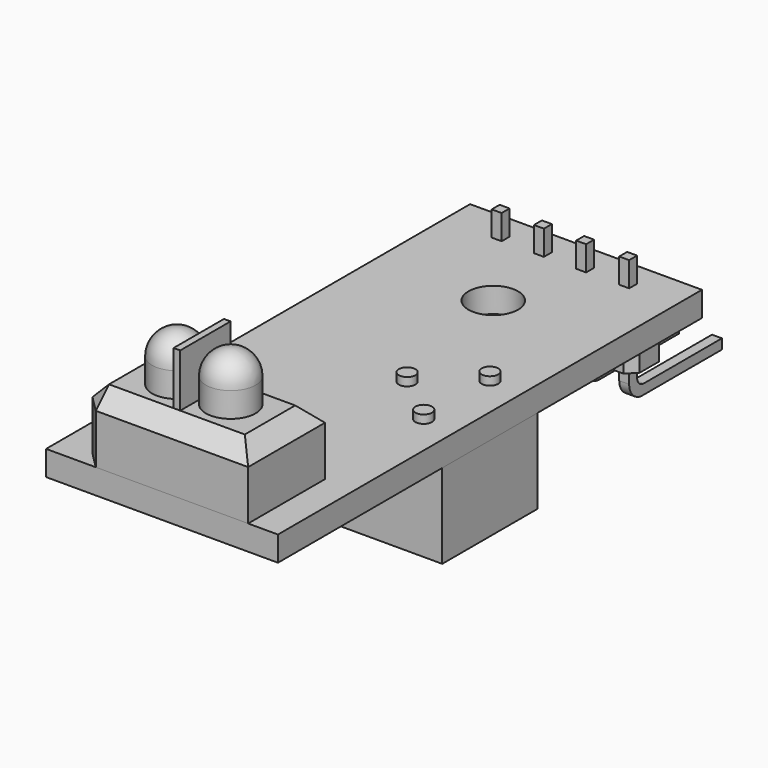
from build123d import *

# Parameters (mm, degrees)
BOX002_W                  = 0.6
BOX002_H                  = 0.6
BOX002_DEPTH              = 3
BOX004_W                  = 0.6
BOX004_H                  = 0.6
BOX004_DEPTH              = 7
BOX004_PITCH_ANGLE        = 90
BOX003_W                  = 0.6
BOX003_H                  = 0.6
BOX003_DEPTH              = 2
FILLET_R                  = 1
FILLET001_R               = 0.5
PAD001_DEPTH              = 2.5
FUSION007_PLACEMENT_ANGLE = 90
BOX005_W                  = 0.6
BOX005_H                  = 0.6
BOX005_DEPTH              = 3
FILLET002_R               = 0.5
PAD002_DEPTH              = 2.5
FUSION008_PLACEMENT_ANGLE = 90
BOX006_W                  = 0.6
BOX006_H                  = 0.6
BOX006_DEPTH              = 3
FILLET003_R               = 0.5
PAD003_DEPTH              = 2.5
FUSION009_PLACEMENT_ANGLE = 90
BOX007_W                  = 0.6
BOX007_H                  = 0.6
BOX007_DEPTH              = 3
FILLET004_R               = 0.5
PAD004_DEPTH              = 2.5
FUSION010_PLACEMENT_ANGLE = 90
CYLINDER006_R             = 1.5
CYLINDER006_DEPTH         = 2
SKETCH003_W               = 3.5
SKETCH003_H               = 0.5
POCKET001_DEPTH           = 0.5
SKETCH004_W               = 0.5
SKETCH004_H               = 3.35567
POCKET002_DEPTH           = 0.5
CYLINDER008_R             = 0.5
CYLINDER008_DEPTH         = 2
CYLINDER009_R             = 0.5
CYLINDER009_DEPTH         = 2
CYLINDER007_R             = 0.5
CYLINDER007_DEPTH         = 2
BOX008_W                  = 7
BOX008_H                  = 7.2
BOX008_DEPTH              = 5.1
SKETCH002_R               = 1.5
POCKET_DEPTH              = 2
CYLINDER004_R             = 0.2
CYLINDER004_DEPTH         = 7.8
CYLINDER005_R             = 0.2
CYLINDER005_DEPTH         = 7.8
CYLINDER001_R             = 1.5
CYLINDER001_DEPTH         = 2
CYLINDER002_R             = 0.2
CYLINDER002_DEPTH         = 7.8
CYLINDER003_R             = 0.2
CYLINDER003_DEPTH         = 7.8
CYLINDER_R                = 1.5
CYLINDER_DEPTH            = 2
BOX001_W                  = 10.2
BOX001_H                  = 5.8
BOX001_DEPTH              = 4
CHAMFER_SIZE              = 1
SKETCH_W                  = 0.4
SKETCH_H                  = 3.8
PAD_DEPTH                 = 3.2
BOX011_W                  = 0.3
BOX011_H                  = 0.4
BOX011_DEPTH              = 0.19
BOX011_ROLL_ANGLE         = 90
BOX012_W                  = 0.3
BOX012_H                  = 0.4
BOX012_DEPTH              = 0.19
BOX010_W                  = 0.3
BOX010_H                  = 0.4
BOX010_DEPTH              = 0.19
FILLET005_R               = 0.2
FILLET006_R               = 0.1
FILLET007_R               = 0.2
FILLET008_R               = 0.1
FILLET012_R               = 0.2
FILLET011_R               = 0.1
FILLET010_R               = 0.2
FILLET009_R               = 0.1
FILLET014_R               = 0.2
FILLET013_R               = 0.1
FILLET016_R               = 0.2
FILLET015_R               = 0.1
FILLET015_PLACEMENT_ANGLE = 180
FILLET022_R               = 0.2
FILLET021_R               = 0.1
FILLET021_PLACEMENT_ANGLE = 180
FILLET018_R               = 0.2
FILLET017_R               = 0.1
FILLET017_PLACEMENT_ANGLE = 180
FILLET020_R               = 0.2
FILLET019_R               = 0.1
FILLET019_PLACEMENT_ANGLE = 180
BOX009_W                  = 5
BOX009_H                  = 4
BOX009_DEPTH              = 1.5
CHAMFER001_SIZE           = 0.5
BOX_W                     = 14
BOX_H                     = 32
BOX_DEPTH                 = 1.5
SKETCH005_R               = 1.5
POCKET003_DEPTH           = 5


with BuildPart() as cubo:
    # Box002 → Box002 (new body)
    with BuildSketch(Plane(origin=(0.97, 0.97, 2.5), x_dir=(1, 0, 0), z_dir=(0, 0, 1))):
        with Locations((0.3, 0.3)):
            Rectangle(BOX002_W, BOX002_H)
    extrude(amount=BOX002_DEPTH)


with BuildPart() as cubo003:
    # Box004 → Box004 (new body)
    with BuildSketch(Plane.XY):
        with Locations((0.3, 0.3)):
            Rectangle(BOX004_W, BOX004_H)
    extrude(amount=BOX004_DEPTH)


with BuildPart() as cubo003_1:
    # Box004 pitch: moved
    add(cubo003.part.rotate(Axis((0, 0, 0), (0, 1, 0)), BOX004_PITCH_ANGLE))


with BuildPart() as cubo003_2:
    # Box004 placement: moved
    add(cubo003_1.part.moved(Location((0.97, 0.97, -1.5))))


with BuildPart() as fillet_body:
    # Box003 → Box003 (new body)
    with BuildSketch(Plane(origin=(0.97, 0.97, -1.5), x_dir=(1, 0, 0), z_dir=(0, 0, 1))):
        with Locations((0.3, 0.3)):
            Rectangle(BOX003_W, BOX003_H)
    extrude(amount=BOX003_DEPTH)

    # Fusion006: union Cubo003
    add(cubo003_2.part)

    # Fillet
    fillet_edges = [fillet_body.edges().sort_by_distance(p)[0] for p in [
        (0.97, 1.27, -2.1),
    ]]
    fillet(fillet_edges, radius=FILLET_R)


with BuildPart() as fillet001:
    # Fillet001 base: copy of Fillet body
    add(fillet_body.part)

    # Fillet001
    fillet001_edges = [fillet001.edges().sort_by_distance(p)[0] for p in [
        (1.57, 1.27, -1.5),
    ]]
    fillet(fillet001_edges, radius=FILLET001_R)


with BuildPart() as conector:
    # Sketch001 → Pad001 (new body)
    with BuildSketch(Plane.XY):
        Polygon((0, 0.544315), (0.544315, 0), (1.995685, 0), (2.54, 0.544315), (2.54, 1.995685), (1.995685, 2.54), (0.544315, 2.54), (0, 1.995685), align=None)
    extrude(amount=PAD001_DEPTH)

    # Fusion007: union Cubo, Fillet001
    add(cubo.part)
    add(fillet001.part)


with BuildPart() as conector_1:
    # Fusion007 placement: moved
    add(conector.part.moved(Location((4.5, 29, -2.5))).rotate(Axis((4.5, 29, -2.5), (0, 0, 1)), FUSION007_PLACEMENT_ANGLE))


with BuildPart() as cubo004:
    # Box005 → Box005 (new body)
    with BuildSketch(Plane(origin=(0.97, 0.97, 2.5), x_dir=(1, 0, 0), z_dir=(0, 0, 1))):
        with Locations((0.3, 0.3)):
            Rectangle(BOX005_W, BOX005_H)
    extrude(amount=BOX005_DEPTH)


with BuildPart() as fillet002:
    # Fillet002 base: copy of Fillet body
    add(fillet_body.part)

    # Fillet002
    fillet002_edges = [fillet002.edges().sort_by_distance(p)[0] for p in [
        (1.57, 1.27, -1.5),
    ]]
    fillet(fillet002_edges, radius=FILLET002_R)


with BuildPart() as conector001:
    # Sketch001 → Pad002 (new body)
    with BuildSketch(Plane.XY):
        Polygon((0, 0.544315), (0.544315, 0), (1.995685, 0), (2.54, 0.544315), (2.54, 1.995685), (1.995685, 2.54), (0.544315, 2.54), (0, 1.995685), align=None)
    extrude(amount=PAD002_DEPTH)

    # Fusion008: union Cubo004, Fillet002
    add(cubo004.part)
    add(fillet002.part)


with BuildPart() as conector001_1:
    # Fusion008 placement: moved
    add(conector001.part.moved(Location((7.05, 29, -2.5))).rotate(Axis((7.05, 29, -2.5), (0, 0, 1)), FUSION008_PLACEMENT_ANGLE))


with BuildPart() as cubo005:
    # Box006 → Box006 (new body)
    with BuildSketch(Plane(origin=(0.97, 0.97, 2.5), x_dir=(1, 0, 0), z_dir=(0, 0, 1))):
        with Locations((0.3, 0.3)):
            Rectangle(BOX006_W, BOX006_H)
    extrude(amount=BOX006_DEPTH)


with BuildPart() as fillet003:
    # Fillet003 base: copy of Fillet body
    add(fillet_body.part)

    # Fillet003
    fillet003_edges = [fillet003.edges().sort_by_distance(p)[0] for p in [
        (1.57, 1.27, -1.5),
    ]]
    fillet(fillet003_edges, radius=FILLET003_R)


with BuildPart() as conector002:
    # Sketch001 → Pad003 (new body)
    with BuildSketch(Plane.XY):
        Polygon((0, 0.544315), (0.544315, 0), (1.995685, 0), (2.54, 0.544315), (2.54, 1.995685), (1.995685, 2.54), (0.544315, 2.54), (0, 1.995685), align=None)
    extrude(amount=PAD003_DEPTH)

    # Fusion009: union Cubo005, Fillet003
    add(cubo005.part)
    add(fillet003.part)


with BuildPart() as conector002_1:
    # Fusion009 placement: moved
    add(conector002.part.moved(Location((9.6, 29, -2.5))).rotate(Axis((9.6, 29, -2.5), (0, 0, 1)), FUSION009_PLACEMENT_ANGLE))


with BuildPart() as cubo006:
    # Box007 → Box007 (new body)
    with BuildSketch(Plane(origin=(0.97, 0.97, 2.5), x_dir=(1, 0, 0), z_dir=(0, 0, 1))):
        with Locations((0.3, 0.3)):
            Rectangle(BOX007_W, BOX007_H)
    extrude(amount=BOX007_DEPTH)


with BuildPart() as fillet004:
    # Fillet004 base: copy of Fillet body
    add(fillet_body.part)

    # Fillet004
    fillet004_edges = [fillet004.edges().sort_by_distance(p)[0] for p in [
        (1.57, 1.27, -1.5),
    ]]
    fillet(fillet004_edges, radius=FILLET004_R)


with BuildPart() as conector003:
    # Sketch001 → Pad004 (new body)
    with BuildSketch(Plane.XY):
        Polygon((0, 0.544315), (0.544315, 0), (1.995685, 0), (2.54, 0.544315), (2.54, 1.995685), (1.995685, 2.54), (0.544315, 2.54), (0, 1.995685), align=None)
    extrude(amount=PAD004_DEPTH)

    # Fusion010: union Cubo006, Fillet004
    add(cubo006.part)
    add(fillet004.part)


with BuildPart() as conector003_1:
    # Fusion010 placement: moved
    add(conector003.part.moved(Location((12.2, 29, -2.5))).rotate(Axis((12.2, 29, -2.5), (0, 0, 1)), FUSION010_PLACEMENT_ANGLE))


with BuildPart() as pocket002:
    # Cylinder006 → Cylinder006 (new body)
    with BuildSketch(Plane(origin=(10.5, 15.9, -5.1), x_dir=(1, 0, 0), z_dir=(0, 0, 1))):
        Circle(CYLINDER006_R)
    extrude(amount=CYLINDER006_DEPTH)

    # Sketch003 → Pocket001 (cut)
    with BuildSketch(Plane(origin=(10.5, 15.9, -5.1), x_dir=(1, 0, 0), z_dir=(0, 0, -1))):
        with Locations((0.09268, 0)):
            Rectangle(SKETCH003_W, SKETCH003_H)
    extrude(amount=-POCKET001_DEPTH, mode=Mode.SUBTRACT)

    # Sketch004 → Pocket002 (cut)
    with BuildSketch(Plane(origin=(10.5, 15.9, -5.1), x_dir=(1, 0, 0), z_dir=(0, 0, -1))):
        with Locations((0, -0.038105)):
            Rectangle(SKETCH004_W, SKETCH004_H)
    extrude(amount=-POCKET002_DEPTH, mode=Mode.SUBTRACT)


with BuildPart() as cilindro008:
    # Cylinder008 → Cylinder008 (new body)
    with BuildSketch(Plane(origin=(12, 18.5, 0), x_dir=(1, 0, 0), z_dir=(0, 0, 1))):
        Circle(CYLINDER008_R)
    extrude(amount=CYLINDER008_DEPTH)


with BuildPart() as cilindro009:
    # Cylinder009 → Cylinder009 (new body)
    with BuildSketch(Plane(origin=(9, 16, 0), x_dir=(1, 0, 0), z_dir=(0, 0, 1))):
        Circle(CYLINDER009_R)
    extrude(amount=CYLINDER009_DEPTH)


with BuildPart() as cilindro007:
    # Cylinder007 → Cylinder007 (new body)
    with BuildSketch(Plane(origin=(12, 13.5, 0), x_dir=(1, 0, 0), z_dir=(0, 0, 1))):
        Circle(CYLINDER007_R)
    extrude(amount=CYLINDER007_DEPTH)


with BuildPart() as fusion011:
    # Box008 → Box008 (new body)
    with BuildSketch(Plane(origin=(7, 12.4, -5.1), x_dir=(1, 0, 0), z_dir=(0, 0, 1))):
        with Locations((3.5, 3.6)):
            Rectangle(BOX008_W, BOX008_H)
    extrude(amount=BOX008_DEPTH)

    # Sketch002 → Pocket (cut)
    with BuildSketch(Plane(origin=(7, 12.4, -5.1), x_dir=(1, 0, 0), z_dir=(0, 0, -1))):
        with Locations((3.5, -3.5)):
            Circle(SKETCH002_R)
    extrude(amount=-POCKET_DEPTH, mode=Mode.SUBTRACT)

    # Fusion011: union Cilindro008, Cilindro009, Cilindro007
    add(cilindro008.part)
    add(cilindro009.part)
    add(cilindro007.part)


with BuildPart() as cilindro004:
    # Cylinder004 → Cylinder004 (new body)
    with BuildSketch(Plane(origin=(8.8, 2.2, -1), x_dir=(1, 0, 0), z_dir=(0, 0, 1))):
        Circle(CYLINDER004_R)
    extrude(amount=CYLINDER004_DEPTH)


with BuildPart() as cilindro005:
    # Cylinder005 → Cylinder005 (new body)
    with BuildSketch(Plane(origin=(8.8, 3.8, -1), x_dir=(1, 0, 0), z_dir=(0, 0, 1))):
        Circle(CYLINDER005_R)
    extrude(amount=CYLINDER005_DEPTH)


with BuildPart() as cilindro001:
    # Cylinder001 → Cylinder001 (new body)
    with BuildSketch(Plane(origin=(5.5, 3, 5), x_dir=(1, 0, 0), z_dir=(0, 0, 1))):
        Circle(CYLINDER001_R)
    extrude(amount=CYLINDER001_DEPTH)


with BuildPart() as obj1:
    # Sphere001 → Sphere001 (revolve)
    with BuildSketch(Plane(origin=(5.5, 3, 7), x_dir=(1, 0, 0), z_dir=(0, -1, 0))):
        with BuildLine():
            ThreePointArc((0, -1.5), (1.5, 0), (0, 1.5))
            Line((0, 1.5), (0, -1.5))
        make_face()
    revolve(axis=Axis((5.5, 3, 7), (0, 0, 1)))

    # Fusion001: union Cilindro001
    add(cilindro001.part)


with BuildPart() as obj1_1:
    # Fusion001 placement: moved
    add(obj1.part.moved(Location((3.25, 0, 0))))

    # Fusion012: union Cilindro004, Cilindro005
    add(cilindro004.part)
    add(cilindro005.part)


with BuildPart() as cilindro002:
    # Cylinder002 → Cylinder002 (new body)
    with BuildSketch(Plane(origin=(5.5, 2.2, -1), x_dir=(1, 0, 0), z_dir=(0, 0, 1))):
        Circle(CYLINDER002_R)
    extrude(amount=CYLINDER002_DEPTH)


with BuildPart() as cilindro003:
    # Cylinder003 → Cylinder003 (new body)
    with BuildSketch(Plane(origin=(5.5, 3.8, -1), x_dir=(1, 0, 0), z_dir=(0, 0, 1))):
        Circle(CYLINDER003_R)
    extrude(amount=CYLINDER003_DEPTH)


with BuildPart() as cilindro:
    # Cylinder → Cylinder (new body)
    with BuildSketch(Plane(origin=(5.5, 3, 5), x_dir=(1, 0, 0), z_dir=(0, 0, 1))):
        Circle(CYLINDER_R)
    extrude(amount=CYLINDER_DEPTH)


with BuildPart() as led:
    # Sphere → Sphere (revolve)
    with BuildSketch(Plane(origin=(5.5, 3, 7), x_dir=(1, 0, 0), z_dir=(0, -1, 0))):
        with BuildLine():
            ThreePointArc((0, -1.5), (1.5, 0), (0, 1.5))
            Line((0, 1.5), (0, -1.5))
        make_face()
    revolve(axis=Axis((5.5, 3, 7), (0, 0, 1)))

    # Fusion: union Cilindro
    add(cilindro.part)

    # Fusion013: union Cilindro002, Cilindro003
    add(cilindro002.part)
    add(cilindro003.part)


with BuildPart() as fusion014:
    # Box001 → Box001 (new body)
    with BuildSketch(Plane(origin=(2, 0, 1.5), x_dir=(1, 0, 0), z_dir=(0, 0, 1))):
        with Locations((5.1, 2.9)):
            Rectangle(BOX001_W, BOX001_H)
    extrude(amount=BOX001_DEPTH)

    # Chamfer
    chamfer_edges = [fusion014.edges().sort_by_distance(p)[0] for p in [
        (2, 0, 3.5),
        (2, 2.9, 5.5),
        (2, 5.8, 3.5),
        (12.2, 2.9, 5.5),
        (7.1, 0, 5.5),
        (7.1, 5.8, 5.5),
    ]]
    chamfer(chamfer_edges, length=CHAMFER_SIZE)

    # Sketch → Pad (new body)
    with BuildSketch(Plane.XY.offset(5.5)):
        with Locations((7.1, 2.9)):
            Rectangle(SKETCH_W, SKETCH_H)
    extrude(amount=PAD_DEPTH)

    # Fusion014: union obj1, LED
    add(obj1_1.part)
    add(led.part)


with BuildPart() as cubo010:
    # Box011 → Box011 (new body)
    with BuildSketch(Plane.XY):
        with Locations((0.15, 0.2)):
            Rectangle(BOX011_W, BOX011_H)
    extrude(amount=BOX011_DEPTH)


with BuildPart() as cubo010_1:
    # Box011 roll: moved
    add(cubo010.part.rotate(Axis((0, 0, 0), (1, 0, 0)), BOX011_ROLL_ANGLE))


with BuildPart() as cubo010_2:
    # Box011 placement: moved
    add(cubo010_1.part.moved(Location((6, 13.4, -0.59))))


with BuildPart() as cubo011:
    # Box012 → Box012 (new body)
    with BuildSketch(Plane(origin=(6, 13.4, -0.59), x_dir=(1, 0, 0), z_dir=(0, 0, 1))):
        with Locations((0.15, 0.2)):
            Rectangle(BOX012_W, BOX012_H)
    extrude(amount=BOX012_DEPTH)


with BuildPart() as fillet006:
    # Box010 → Box010 (new body)
    with BuildSketch(Plane(origin=(6, 13, -0.19), x_dir=(1, 0, 0), z_dir=(0, 0, 1))):
        with Locations((0.15, 0.2)):
            Rectangle(BOX010_W, BOX010_H)
    extrude(amount=BOX010_DEPTH)

    # Fusion015: union Cubo010, Cubo011
    add(cubo010_2.part)
    add(cubo011.part)


with BuildPart() as fillet006_1:
    # Fusion015 placement: moved
    add(fillet006.part.moved(Location((0, 0.3, 0))))

    # Fillet005
    fillet005_edges = [fillet006_1.edges().sort_by_distance(p)[0] for p in [
        (6.15, 13.51, -0.59),
    ]]
    fillet(fillet005_edges, radius=FILLET005_R)

    # Fillet006
    fillet006_edges = [fillet006_1.edges().sort_by_distance(p)[0] for p in [
        (6.15, 13.7, -0.4),
    ]]
    fillet(fillet006_edges, radius=FILLET006_R)


with BuildPart() as fillet008:
    # Fillet007 base: copy of Fillet006
    add(fillet006_1.part)

    # Fillet007
    fillet007_edges = [fillet008.edges().sort_by_distance(p)[0] for p in [
        (6.15, 13.7, 0),
    ]]
    fillet(fillet007_edges, radius=FILLET007_R)

    # Fillet008
    fillet008_edges = [fillet008.edges().sort_by_distance(p)[0] for p in [
        (6.15, 13.51, -0.19),
    ]]
    fillet(fillet008_edges, radius=FILLET008_R)


with BuildPart() as fillet011:
    # Fillet012 base: copy of Fillet006
    add(fillet006_1.part)

    # Fillet012
    fillet012_edges = [fillet011.edges().sort_by_distance(p)[0] for p in [
        (6.15, 13.7, 0),
    ]]
    fillet(fillet012_edges, radius=FILLET012_R)

    # Fillet011
    fillet011_edges = [fillet011.edges().sort_by_distance(p)[0] for p in [
        (6.15, 13.51, -0.19),
    ]]
    fillet(fillet011_edges, radius=FILLET011_R)


with BuildPart() as fillet011_1:
    # Fillet011 placement: moved
    add(fillet011.part.moved(Location((-2.8, 0, 0))))


with BuildPart() as fillet009:
    # Fillet010 base: copy of Fillet006
    add(fillet006_1.part)

    # Fillet010
    fillet010_edges = [fillet009.edges().sort_by_distance(p)[0] for p in [
        (6.15, 13.7, 0),
    ]]
    fillet(fillet010_edges, radius=FILLET010_R)

    # Fillet009
    fillet009_edges = [fillet009.edges().sort_by_distance(p)[0] for p in [
        (6.15, 13.51, -0.19),
    ]]
    fillet(fillet009_edges, radius=FILLET009_R)


with BuildPart() as fillet009_1:
    # Fillet009 placement: moved
    add(fillet009.part.moved(Location((-1.4, 0, 0))))


with BuildPart() as fillet013:
    # Fillet014 base: copy of Fillet006
    add(fillet006_1.part)

    # Fillet014
    fillet014_edges = [fillet013.edges().sort_by_distance(p)[0] for p in [
        (6.15, 13.7, 0),
    ]]
    fillet(fillet014_edges, radius=FILLET014_R)

    # Fillet013
    fillet013_edges = [fillet013.edges().sort_by_distance(p)[0] for p in [
        (6.15, 13.51, -0.19),
    ]]
    fillet(fillet013_edges, radius=FILLET013_R)


with BuildPart() as fillet013_1:
    # Fillet013 placement: moved
    add(fillet013.part.moved(Location((-4.2, 0, 0))))


with BuildPart() as fillet015:
    # Fillet016 base: copy of Fillet006
    add(fillet006_1.part)

    # Fillet016
    fillet016_edges = [fillet015.edges().sort_by_distance(p)[0] for p in [
        (6.15, 13.7, 0),
    ]]
    fillet(fillet016_edges, radius=FILLET016_R)

    # Fillet015
    fillet015_edges = [fillet015.edges().sort_by_distance(p)[0] for p in [
        (6.15, 13.51, -0.19),
    ]]
    fillet(fillet015_edges, radius=FILLET015_R)


with BuildPart() as fillet015_1:
    # Fillet015 placement: moved
    add(fillet015.part.moved(Location((12.3, 32, 0))).rotate(Axis((12.3, 32, 0), (0, 0, 1)), FILLET015_PLACEMENT_ANGLE))


with BuildPart() as fillet021:
    # Fillet022 base: copy of Fillet006
    add(fillet006_1.part)

    # Fillet022
    fillet022_edges = [fillet021.edges().sort_by_distance(p)[0] for p in [
        (6.15, 13.7, 0),
    ]]
    fillet(fillet022_edges, radius=FILLET022_R)

    # Fillet021
    fillet021_edges = [fillet021.edges().sort_by_distance(p)[0] for p in [
        (6.15, 13.51, -0.19),
    ]]
    fillet(fillet021_edges, radius=FILLET021_R)


with BuildPart() as fillet021_1:
    # Fillet021 placement: moved
    add(fillet021.part.moved(Location((8.1, 32, 0))).rotate(Axis((8.1, 32, 0), (0, 0, 1)), FILLET021_PLACEMENT_ANGLE))


with BuildPart() as fillet017:
    # Fillet018 base: copy of Fillet006
    add(fillet006_1.part)

    # Fillet018
    fillet018_edges = [fillet017.edges().sort_by_distance(p)[0] for p in [
        (6.15, 13.7, 0),
    ]]
    fillet(fillet018_edges, radius=FILLET018_R)

    # Fillet017
    fillet017_edges = [fillet017.edges().sort_by_distance(p)[0] for p in [
        (6.15, 13.51, -0.19),
    ]]
    fillet(fillet017_edges, radius=FILLET017_R)


with BuildPart() as fillet017_1:
    # Fillet017 placement: moved
    add(fillet017.part.moved(Location((10.9, 32, 0))).rotate(Axis((10.9, 32, 0), (0, 0, 1)), FILLET017_PLACEMENT_ANGLE))


with BuildPart() as fillet019:
    # Fillet020 base: copy of Fillet006
    add(fillet006_1.part)

    # Fillet020
    fillet020_edges = [fillet019.edges().sort_by_distance(p)[0] for p in [
        (6.15, 13.7, 0),
    ]]
    fillet(fillet020_edges, radius=FILLET020_R)

    # Fillet019
    fillet019_edges = [fillet019.edges().sort_by_distance(p)[0] for p in [
        (6.15, 13.51, -0.19),
    ]]
    fillet(fillet019_edges, radius=FILLET019_R)


with BuildPart() as fillet019_1:
    # Fillet019 placement: moved
    add(fillet019.part.moved(Location((9.5, 32, 0))).rotate(Axis((9.5, 32, 0), (0, 0, 1)), FILLET019_PLACEMENT_ANGLE))


with BuildPart() as fusion016:
    # Box009 → Box009 (new body)
    with BuildSketch(Plane.XY):
        with Locations((2.5, 2)):
            Rectangle(BOX009_W, BOX009_H)
    extrude(amount=BOX009_DEPTH)

    # Chamfer001
    chamfer001_edges = [fusion016.edges().sort_by_distance(p)[0] for p in [
        (0, 2, 1.5),
        (0, 2, 0),
        (5, 2, 1.5),
        (5, 2, 0),
        (2.5, 0, 0),
        (2.5, 0, 1.5),
        (2.5, 4, 0),
        (2.5, 4, 1.5),
    ]]
    chamfer(chamfer001_edges, length=CHAMFER001_SIZE)


with BuildPart() as fusion016_1:
    # Chamfer001 placement: moved
    add(fusion016.part.moved(Location((1.5, 14, -1.5))))

    # Fusion016: union Fillet008, Fillet011, Fillet009, Fillet013, Fillet015, Fillet021, Fillet017, Fillet019
    add(fillet008.part)
    add(fillet011_1.part)
    add(fillet009_1.part)
    add(fillet013_1.part)
    add(fillet015_1.part)
    add(fillet021_1.part)
    add(fillet017_1.part)
    add(fillet019_1.part)


with BuildPart() as placa:
    # Box → Box (new body)
    with BuildSketch(Plane.XY):
        with Locations((7, 16)):
            Rectangle(BOX_W, BOX_H)
    extrude(amount=BOX_DEPTH)

    # Sketch005 → Pocket003 (cut)
    with BuildSketch(Plane(origin=(0, 0, 0), x_dir=(1, 0, 0), z_dir=(0, 0, -1))):
        with Locations((7, -25)):
            Circle(SKETCH005_R)
    extrude(amount=-POCKET003_DEPTH, mode=Mode.SUBTRACT)


solid = Compound([conector_1.part, conector001_1.part, conector002_1.part, conector003_1.part, pocket002.part, fusion011.part, fusion014.part, fusion016_1.part, placa.part])
